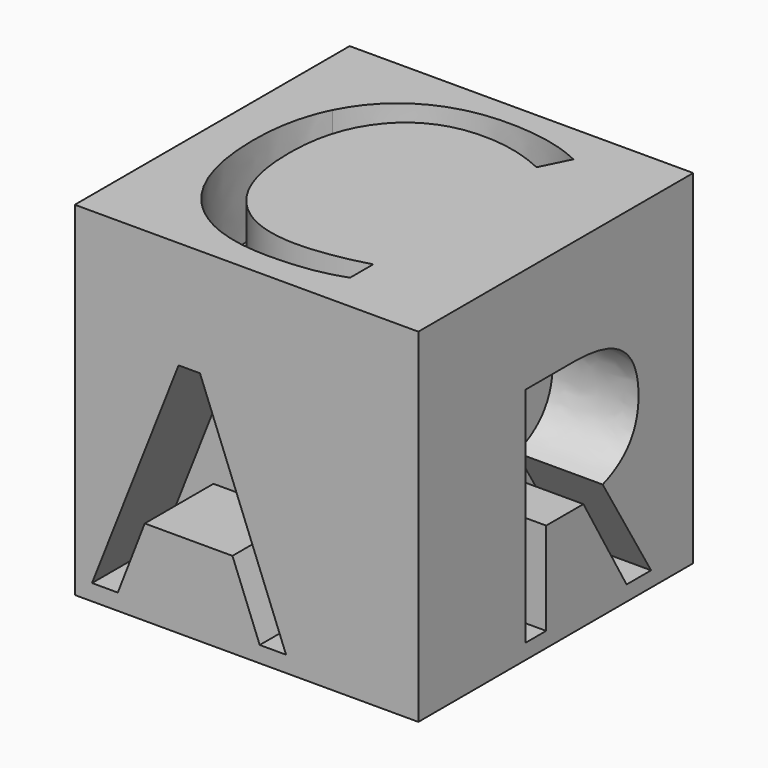
from build123d import *

# Parameters (mm, degrees)
F0_W     = 76.2
F0_H     = 76.2
F1_DEPTH = 76.2
F2_W     = 76.2
F2_H     = 76.2
F3_DEPTH = 25.4
F4_W     = 101.6
F4_H     = 76.2
F5_DEPTH = 25.4
F6_W     = 101.6
F6_H     = 101.6
F7_DEPTH = 25.4


with BuildPart() as f1:
    # F0 (on Front) → F1 (new body)
    with BuildSketch(Plane.XZ):
        with Locations((-4.5091081411, 9.3812153666)):
            Rectangle(F0_W, F0_H)
    extrude(amount=F1_DEPTH)

    # F2 (on face) → F3 (join)
    with BuildSketch(Plane.YZ.offset(33.5908918589)):
        with Locations((-38.1, 9.3812153666)):
            Rectangle(F2_W, F2_H)
        with BuildLine():
            Line((-40.5894218998, 3.1841353355), (-54.3512732325, 3.1841353355))
            Line((-54.3512732325, 3.1841353355), (-54.3512732325, -24.2241639644))
            Line((-54.3512732325, -24.2241639644), (-62.0111716158, -24.2241639644))
            Line((-62.0111716158, -24.2241639644), (-62.0111716158, 41.6855831415))
            Line((-62.0111716158, 41.6855831415), (-43.9361194985, 41.6855831415))
            add(Edge.make_bspline(
                [(-43.9361194985, 41.6855831415), (-31.8043407032, 41.6855831415), (-26.0125342985, 37.0405976812)],
                knots=[0, 0, 0, 1, 1, 1], degree=2))
            add(Edge.make_bspline(
                [(-26.0125342985, 37.0405976812), (-20.2207278938, 32.3956122209), (-20.2207278938, 23.0623650382)],
                knots=[0, 0, 0, 1, 1, 1], degree=2))
            add(Edge.make_bspline(
                [(-20.2207278938, 23.0623650382), (-20.2207278938, 9.9929338984), (-33.4776895025, 5.3912247002)],
                knots=[0, 0, 0, 1, 1, 1], degree=2))
            Line((-33.4776895025, 5.3912247002), (-15.5757424335, -24.2241639644))
            Line((-15.5757424335, -24.2241639644), (-24.6349066232, -24.2241639644))
            Line((-24.6349066232, -24.2241639644), (-40.5894218998, 3.1841353355))
        make_face(mode=Mode.SUBTRACT)
    extrude(amount=F3_DEPTH)

    # F4 (on face) → F5 (join)
    with BuildSketch(Plane.XZ.offset(76.2)):
        with Locations((8.1908918589, 9.3812153666)):
            Rectangle(F4_W, F4_H)
        Polygon((19.8698597014, -23.9472966641), (12.0777951104, -23.9472966641), (4.0165501062, -3.3620787536), (-21.9239412868, -3.3620787536), (-29.8860145599, -23.9472966641), (-37.5080704689, -23.9472966641), (-11.92176383, 41.0526894153), (-5.588940426, 41.0526894153), align=None, mode=Mode.SUBTRACT)
    extrude(amount=F5_DEPTH)

    # F6 (on face) → F7 (join)
    with BuildSketch(Plane.XY.offset(47.4812153666)):
        with Locations((8.1908918589, -50.8)):
            Rectangle(F6_W, F6_H)
        with BuildLine():
            add(Edge.make_bspline(
                [(28.9588458513, -20.3443608997), (19.3893672711, -15.8638535876), (9.8198886909, -15.8638535876)],
                knots=[0, 0, 0, 1, 1, 1], degree=2))
            add(Edge.make_bspline(
                [(9.8198886909, -15.8638535876), (-4.0641524861, -15.8638535876), (-12.1032520256, -25.1106618881)],
                knots=[0, 0, 0, 1, 1, 1], degree=2))
            add(Edge.make_bspline(
                [(-12.1032520256, -25.1106618881), (-20.142351565, -34.3574701886), (-20.142351565, -50.4356692674)],
                knots=[0, 0, 0, 1, 1, 1], degree=2))
            add(Edge.make_bspline(
                [(-20.142351565, -50.4356692674), (-20.142351565, -66.956387587), (-12.3890457018, -75.9819362672)],
                knots=[0, 0, 0, 1, 1, 1], degree=2))
            add(Edge.make_bspline(
                [(-12.3890457018, -75.9819362672), (-4.6357398387, -85.0074849473), (9.7092588807, -85.0074849473)],
                knots=[0, 0, 0, 1, 1, 1], degree=2))
            add(Edge.make_bspline(
                [(9.7092588807, -85.0074849473), (18.5227670914, -85.0074849473), (29.825446031, -81.8360970556)],
                knots=[0, 0, 0, 1, 1, 1], degree=2))
            Line((29.825446031, -81.8360970556), (29.825446031, -90.4099073442))
            add(Edge.make_bspline(
                [(29.825446031, -90.4099073442), (21.0672527254, -93.7103633478), (8.2157564434, -93.7103633478)],
                knots=[0, 0, 0, 1, 1, 1], degree=2))
            add(Edge.make_bspline(
                [(8.2157564434, -93.7103633478), (-10.3884899678, -93.7103633478), (-20.501898448, -82.4076844082)],
                knots=[0, 0, 0, 1, 1, 1], degree=2))
            add(Edge.make_bspline(
                [(-20.501898448, -82.4076844082), (-30.6153069283, -71.1050054686), (-30.6153069283, -50.3066011556)],
                knots=[0, 0, 0, 1, 1, 1], degree=2))
            add(Edge.make_bspline(
                [(-30.6153069283, -50.3066011556), (-30.6153069283, -37.2891601583), (-25.7475952805, -27.4984219577)],
                knots=[0, 0, 0, 1, 1, 1], degree=2))
            add(Edge.make_bspline(
                [(-25.7475952805, -27.4984219577), (-20.8798836328, -17.7076837572), (-11.6883902374, -12.4066720196)],
                knots=[0, 0, 0, 1, 1, 1], degree=2))
            add(Edge.make_bspline(
                [(-11.6883902374, -12.4066720196), (-2.496896842, -7.105660282), (9.9489568028, -7.105660282)],
                knots=[0, 0, 0, 1, 1, 1], degree=2))
            add(Edge.make_bspline(
                [(9.9489568028, -7.105660282), (23.1876574204, -7.105660282), (33.1074637329, -11.9364953264)],
                knots=[0, 0, 0, 1, 1, 1], degree=2))
            Line((33.1074637329, -11.9364953264), (28.9588458513, -20.3443608997))
        make_face(mode=Mode.SUBTRACT)
    extrude(amount=F7_DEPTH)


solid = f1.part
